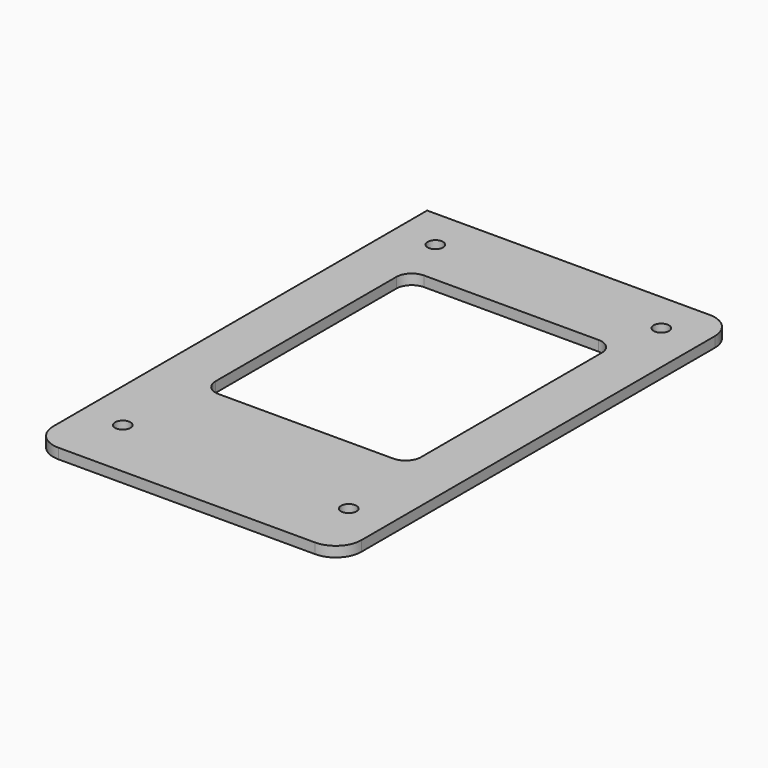
from build123d import *

# Parameters (mm, degrees)
F0_R     = 1.5
F1_DEPTH = 2
F3_DEPTH = 2.001


with BuildPart() as f1:
    # F0 (on Top) → F1 (new body)
    with BuildSketch(Plane.XY):
        with BuildLine():
            Line((-25, -48), (25, -48))
            ThreePointArc((25, -48), (28.535534, -46.535534), (30, -43))
            Line((30, -43), (30, 43))
            ThreePointArc((30, 43), (28.535534, 46.535534), (25, 48))
            Line((25, 48), (-30, 48))
            Line((-30, 48), (-30, 43))
            Line((-30, 43), (-30, -43))
            ThreePointArc((-30, -43), (-28.535534, -46.535534), (-25, -48))
        make_face()
        with Locations((-22, -36.08)):
            Circle(F0_R, mode=Mode.SUBTRACT)
        with Locations((22, -36.08)):
            Circle(F0_R, mode=Mode.SUBTRACT)
        with Locations((-22, 40)):
            Circle(F0_R, mode=Mode.SUBTRACT)
        with Locations((22, 40)):
            Circle(F0_R, mode=Mode.SUBTRACT)
    extrude(amount=F1_DEPTH)

    # F2 (on face) → F3 (cut, through all)
    with BuildSketch(Plane.XY.offset(2)):
        with BuildLine():
            ThreePointArc((20, 28), (19.12132, 30.12132), (17, 31))
            Line((17, 31), (-17, 31))
            ThreePointArc((-17, 31), (-19.12132, 30.12132), (-20, 28))
            Line((-20, 28), (-20, -16))
            ThreePointArc((-20, -16), (-19.12132, -18.12132), (-17, -19))
            Line((-17, -19), (17, -19))
            ThreePointArc((17, -19), (19.12132, -18.12132), (20, -16))
            Line((20, -16), (20, 28))
        make_face()
    extrude(amount=-F3_DEPTH, mode=Mode.SUBTRACT)


solid = f1.part
